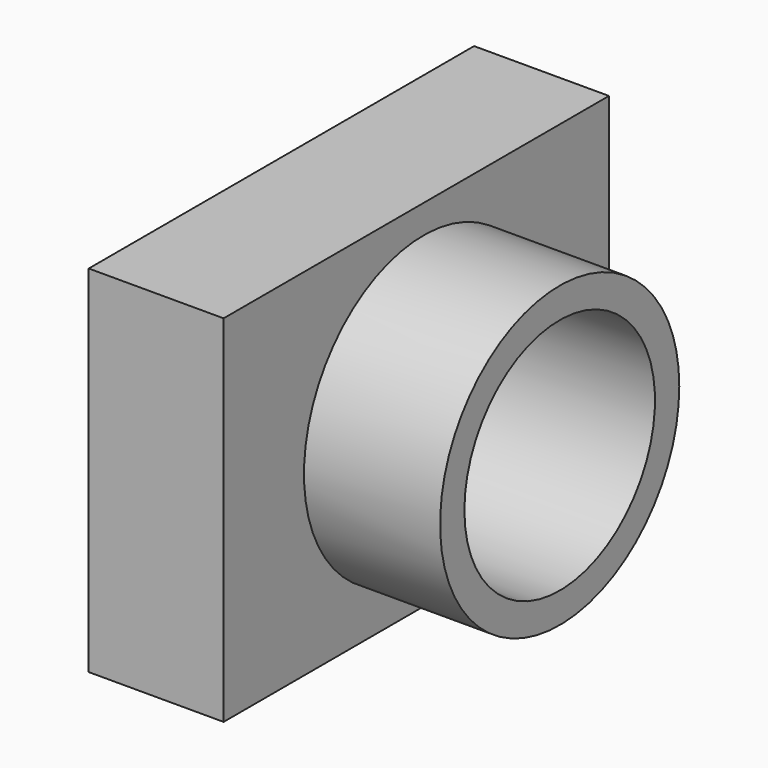
from build123d import *

# Parameters (mm, degrees)
F0_W     = 25.1680966467
F0_H     = 89.8744724691
F1_DEPTH = 66.294
F2_R     = 27.8892037899
F3_DEPTH = 25.4
F5_D     = 44.45


with BuildPart() as f1:
    # F0 (on Top) → F1 (new body)
    with BuildSketch(Plane.XY):
        with Locations((12.5840483233, -1.6976874322)):
            Rectangle(F0_W, F0_H)
    extrude(amount=F1_DEPTH)

    # F2 (on face) → F3 (join)
    with BuildSketch(Plane.YZ.offset(25.1680966467)):
        with Locations((0, 33.0868437886)):
            Circle(F2_R)
    extrude(amount=F3_DEPTH)

    # F5 (through all)
    with Locations(Plane.YZ.offset(50.5680966467)):
        with Locations((0, 33.0868437886)):
            Hole(F5_D / 2)


solid = f1.part
